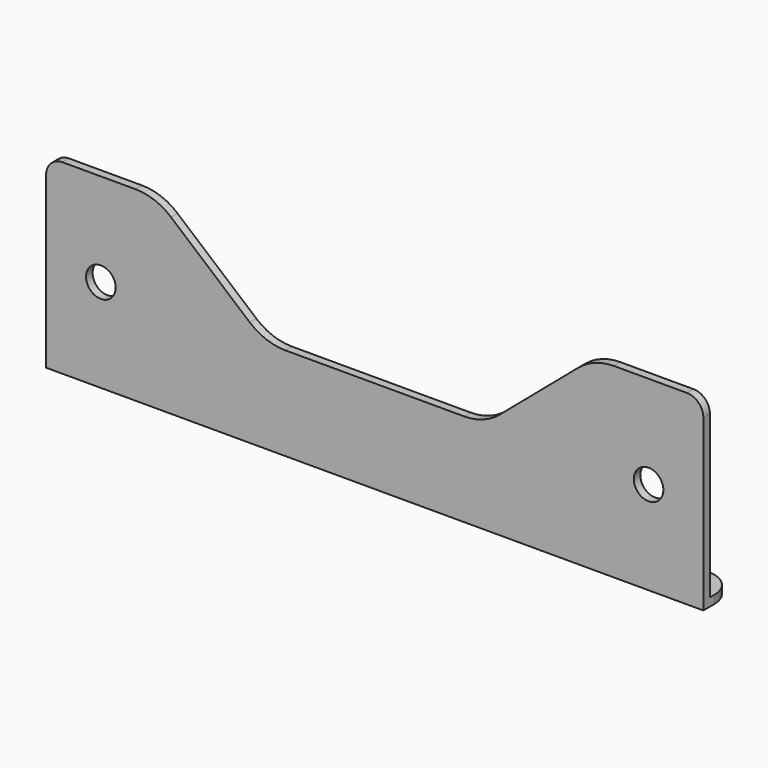
from build123d import *

# Parameters (mm, degrees)
F0_R     = 2.7
F1_DEPTH = 1.5
F2_W     = 120
F2_H     = 1.5
F3_DEPTH = 7.5
F4_R     = 5


with BuildPart() as f1:
    # F0 (on Front) → F1 (new body)
    with BuildSketch(Plane.XZ):
        with BuildLine():
            Line((-60, -71), (-60, -73.654599))
            ThreePointArc((-60, -73.654599), (0, -95), (60, -73.654599))
            Line((60, -73.654599), (60, -71))
            ThreePointArc((60, -71), (59.12132, -68.87868), (57, -68))
            Line((57, -68), (43.67577, -68))
            ThreePointArc((43.67577, -68), (40.225693, -68.614002), (37.199286, -70.380607))
            Line((37.199286, -70.380607), (22.800714, -82.619393))
            ThreePointArc((22.800714, -82.619393), (19.774307, -84.385998), (16.32423, -85))
            Line((16.32423, -85), (0, -85))
            Line((0, -85), (-16.32423, -85))
            ThreePointArc((-16.32423, -85), (-19.774307, -84.385998), (-22.800714, -82.619393))
            Line((-22.800714, -82.619393), (-37.199286, -70.380607))
            ThreePointArc((-37.199286, -70.380607), (-40.225693, -68.614002), (-43.67577, -68))
            Line((-43.67577, -68), (-57, -68))
            ThreePointArc((-57, -68), (-59.12132, -68.87868), (-60, -71))
        make_face()
        with BuildLine():
            ThreePointArc((60, -73.654599), (0, -95), (-60, -73.654599))
            Line((-60, -73.654599), (-60, -102))
            Line((-60, -102), (60, -102))
            Line((60, -102), (60, -73.654599))
        make_face()
        with Locations((-50, -85)):
            Circle(F0_R, mode=Mode.SUBTRACT)
        with Locations((50, -85)):
            Circle(F0_R, mode=Mode.SUBTRACT)
    extrude(amount=F1_DEPTH)

    # F2 (on face) → F3 (join)
    with BuildSketch(Plane.XZ.offset(1.5)):
        with Locations((0, -101.25)):
            Rectangle(F2_W, F2_H)
    extrude(amount=-F3_DEPTH)

    # F4
    f4_edges = [f1.edges().sort_by_distance(p)[0] for p in [
        (60, 6, -101.25),
        (-60, 6, -101.25),
    ]]
    fillet(f4_edges, radius=F4_R)


solid = f1.part
